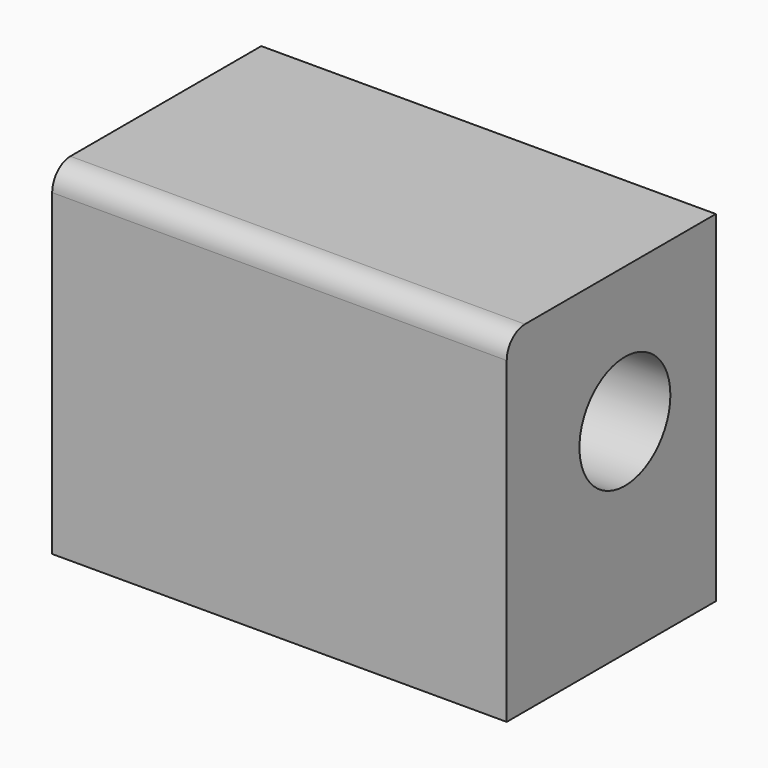
from build123d import *

# Parameters (mm, degrees)
F0_W     = 50.8
F0_H     = 38.1
F1_DEPTH = 29.21
F2_R     = 2.54
F3_R     = 6.35
F4_DEPTH = 50.8


with BuildPart() as f1:
    # F0 (on Front) → F1 (new body)
    with BuildSketch(Plane.XZ):
        with Locations((-25.4, -19.05)):
            Rectangle(F0_W, F0_H)
    extrude(amount=F1_DEPTH)

    # F2
    f2_edges = [f1.edges().sort_by_distance(p)[0] for p in [
        (-25.4, -29.21, 0),
    ]]
    fillet(f2_edges, radius=F2_R)

    # F3 (on face) → F4 (cut, through all)
    with BuildSketch(Plane.YZ):
        with Locations((-12.7, -15.24)):
            Circle(F3_R)
    extrude(amount=-F4_DEPTH, mode=Mode.SUBTRACT)


solid = f1.part
